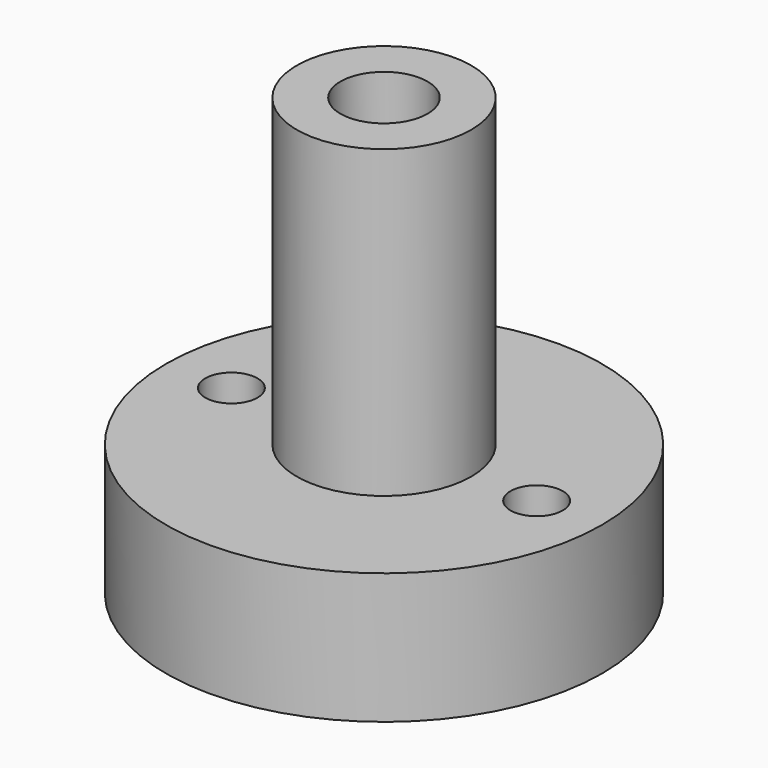
from build123d import *

# Parameters (mm, degrees)
F0_R     = 25
F1_DEPTH = 15
F2_R     = 10
F3_DEPTH = 35
F4_R     = 3
F5_DEPTH = 15
F6_R     = 3
F7_DEPTH = 50
F8_R     = 5
F9_DEPTH = 10


with BuildPart() as f1:
    # F0 (on Top) → F1 (new body)
    with BuildSketch(Plane.XY):
        Circle(F0_R)
    extrude(amount=F1_DEPTH)

    # F2 (on face) → F3 (join)
    with BuildSketch(Plane.XY.offset(15)):
        Circle(F2_R)
    extrude(amount=F3_DEPTH)

    # F4 (on face) → F5 (cut)
    with BuildSketch(Plane.XY.offset(15)):
        with Locations((-17.5, 0)):
            Circle(F4_R)
        with Locations((17.5, 0)):
            Circle(F4_R)
    extrude(amount=-F5_DEPTH, mode=Mode.SUBTRACT)

    # F6 (on face) → F7 (cut)
    with BuildSketch(Plane.XY.offset(50)):
        Circle(F6_R)
    extrude(amount=-F7_DEPTH, mode=Mode.SUBTRACT)

    # F8 (on face) → F9 (cut)
    with BuildSketch(Plane.XY.offset(50)):
        Circle(F8_R)
    extrude(amount=-F9_DEPTH, mode=Mode.SUBTRACT)


solid = f1.part
